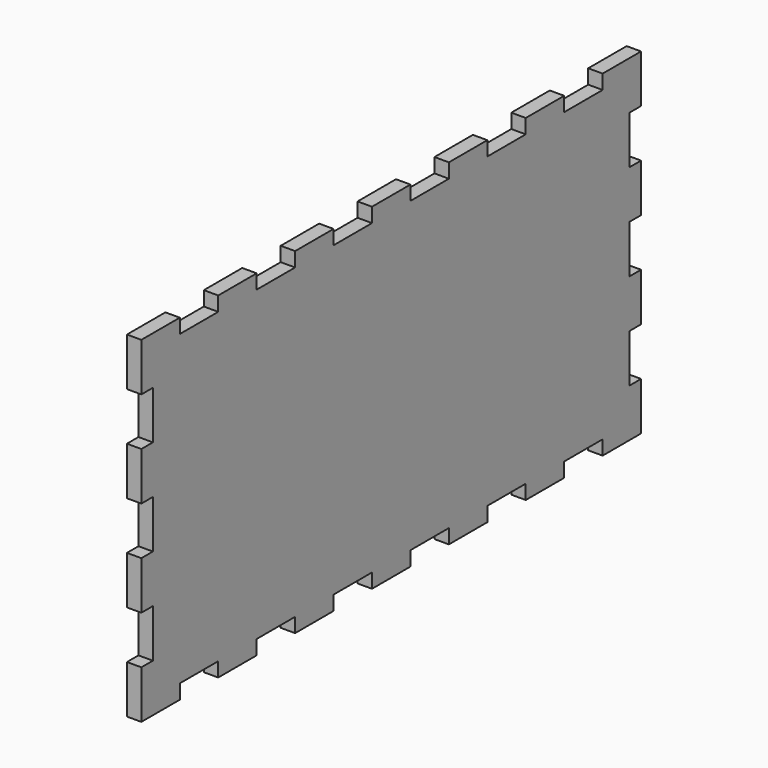
from build123d import *

# Parameters (mm, degrees)
F0_W     = 130
F0_H     = 70
F1_DEPTH = 3
F2_W     = 3
F2_H     = 10
F2_W_2   = 10
F2_H_2   = 3
F3_DEPTH = 3.001


with BuildPart() as f1:
    # F0 (on Right) → F1 (new body)
    with BuildSketch(Plane.YZ):
        Rectangle(F0_W, F0_H)
    extrude(amount=F1_DEPTH)

    # F2 (on face) → F3 (cut, through all)
    with BuildSketch(Plane.YZ.offset(3)):
        with Locations((-63.5, 20)):
            Rectangle(F2_W, F2_H)
        with Locations((-63.5, 0)):
            Rectangle(F2_W, F2_H)
        with Locations((-63.5, -20)):
            Rectangle(F2_W, F2_H)
        with Locations((63.5, 0)):
            Rectangle(F2_W, F2_H)
        with Locations((63.5, 20)):
            Rectangle(F2_W, F2_H)
        with Locations((63.5, -20)):
            Rectangle(F2_W, F2_H)
        with Locations((-50, -33.5)):
            Rectangle(F2_W_2, F2_H_2)
        with Locations((-30, -33.5)):
            Rectangle(F2_W_2, F2_H_2)
        with Locations((-10, -33.5)):
            Rectangle(F2_W_2, F2_H_2)
        with Locations((10, -33.5)):
            Rectangle(F2_W_2, F2_H_2)
        with Locations((30, -33.5)):
            Rectangle(F2_W_2, F2_H_2)
        with Locations((50, -33.5)):
            Rectangle(F2_W_2, F2_H_2)
        with Locations((-50, 33.5)):
            Rectangle(F2_W_2, F2_H_2)
        with Locations((-30, 33.5)):
            Rectangle(F2_W_2, F2_H_2)
        with Locations((50, 33.5)):
            Rectangle(F2_W_2, F2_H_2)
        with Locations((-10, 33.5)):
            Rectangle(F2_W_2, F2_H_2)
        with Locations((10, 33.5)):
            Rectangle(F2_W_2, F2_H_2)
        with Locations((30, 33.5)):
            Rectangle(F2_W_2, F2_H_2)
    extrude(amount=-F3_DEPTH, mode=Mode.SUBTRACT)


solid = f1.part
